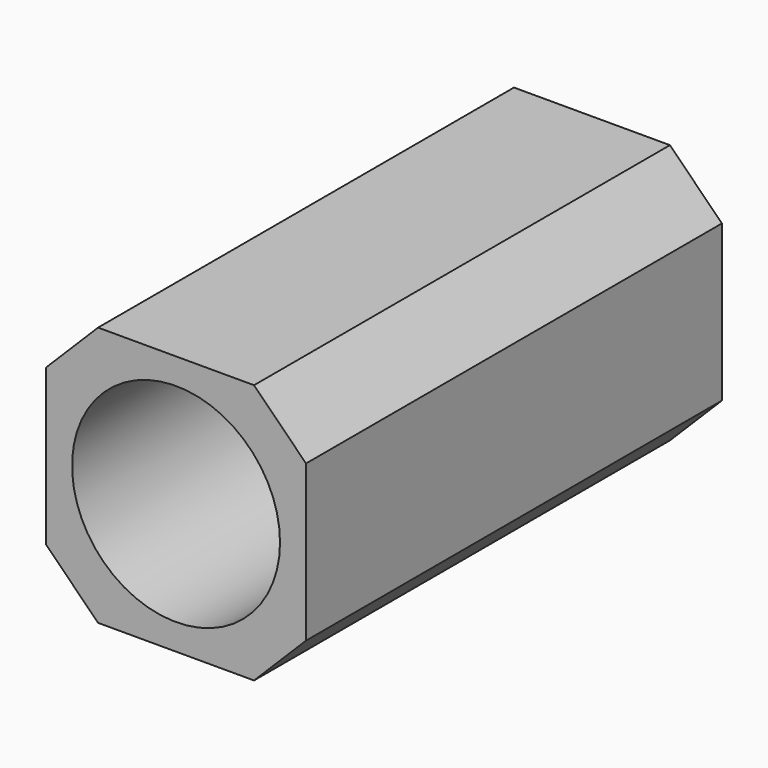
from build123d import *

# Parameters (mm, degrees)
F0_R     = 2
F1_DEPTH = 10
F2_ANGLE = 90


with BuildPart() as f1:
    # F0 (on Top) → F1 (new body)
    with BuildSketch(Plane.XY):
        Polygon((1.5, 2.5), (-1.5, 2.5), (-2.5, 1.5), (-2.5, -1.5), (-1.5, -2.5), (1.5, -2.5), (2.5, -1.5), (2.5, 1.5), align=None)
        Circle(F0_R, mode=Mode.SUBTRACT)
    extrude(amount=F1_DEPTH)


with BuildPart() as f1_1:
    # F2: moved
    add(f1.part.rotate(Axis((0, -2.5, 0), (1, 0, 0)), F2_ANGLE))


solid = f1_1.part
